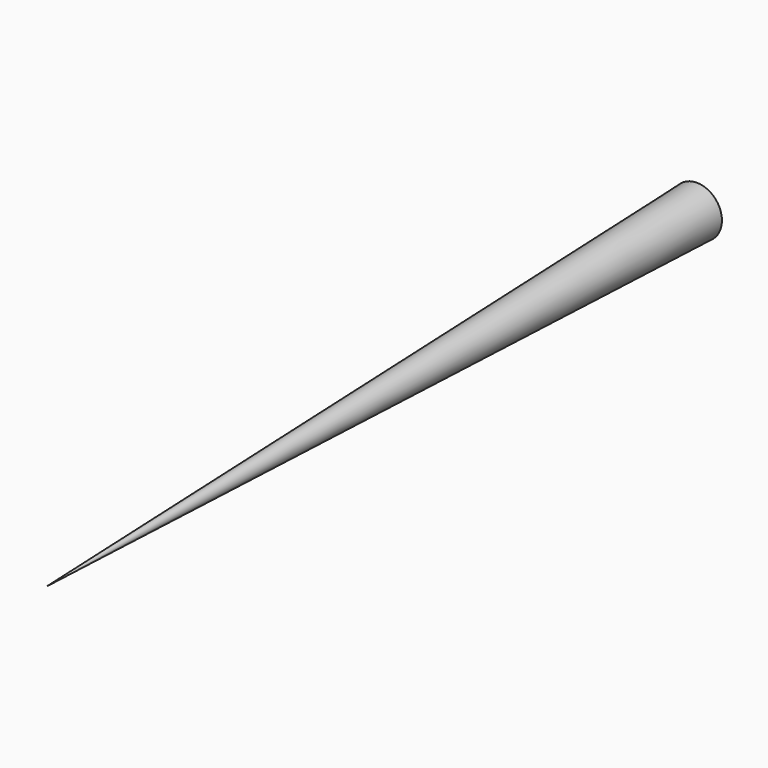
from build123d import *

# Parameters (mm, degrees)
F0_R = 29.382536


with BuildPart() as f3:
    # F0 (on Front) → F3 section 0
    with BuildSketch(Plane.XZ, mode=Mode.PRIVATE) as f3_s0:
        Circle(F0_R)
    loft([f3_s0.sketch, Vertex(0, -952.5, 0)])


solid = f3.part
